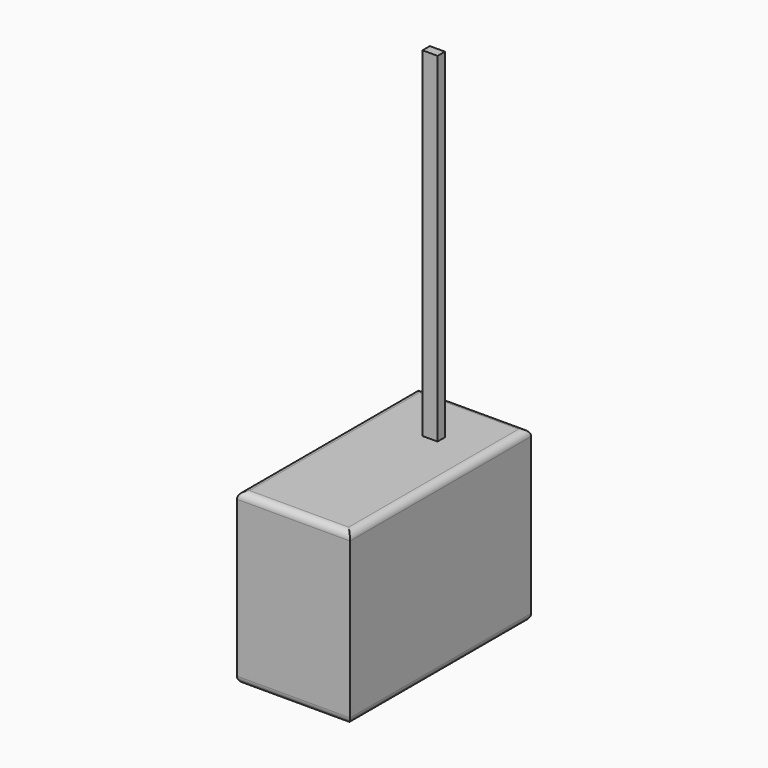
from build123d import *

# Parameters (mm, degrees)
F0_W     = 50.8
F0_H     = 76.2
F1_DEPTH = 101.6
F2_R     = 3.175
F3_W     = 6.770242
F3_H     = 4.11195
F4_DEPTH = 152.4


with BuildPart() as f1:
    # F0 (on Front) → F1 (new body)
    with BuildSketch(Plane.XZ):
        with Locations((25.4, 38.1)):
            Rectangle(F0_W, F0_H)
    extrude(amount=F1_DEPTH)

    # F2
    f2_edges = [f1.edges().sort_by_distance(p)[0] for p in [
        (50.8, -50.8, 76.2),
        (0, -50.8, 76.2),
        (25.4, 0, 76.2),
        (25.4, -101.6, 76.2),
        (0, -50.8, 0),
        (50.8, -50.8, 0),
        (25.4, 0, 0),
        (25.4, -101.6, 0),
    ]]
    fillet(f2_edges, radius=F2_R)

    # F3 (on face) → F4 (join)
    with BuildSketch(Plane.XY.offset(76.2)):
        with Locations((28.007837, -26.172377)):
            Rectangle(F3_W, F3_H)
    extrude(amount=F4_DEPTH)


solid = f1.part
